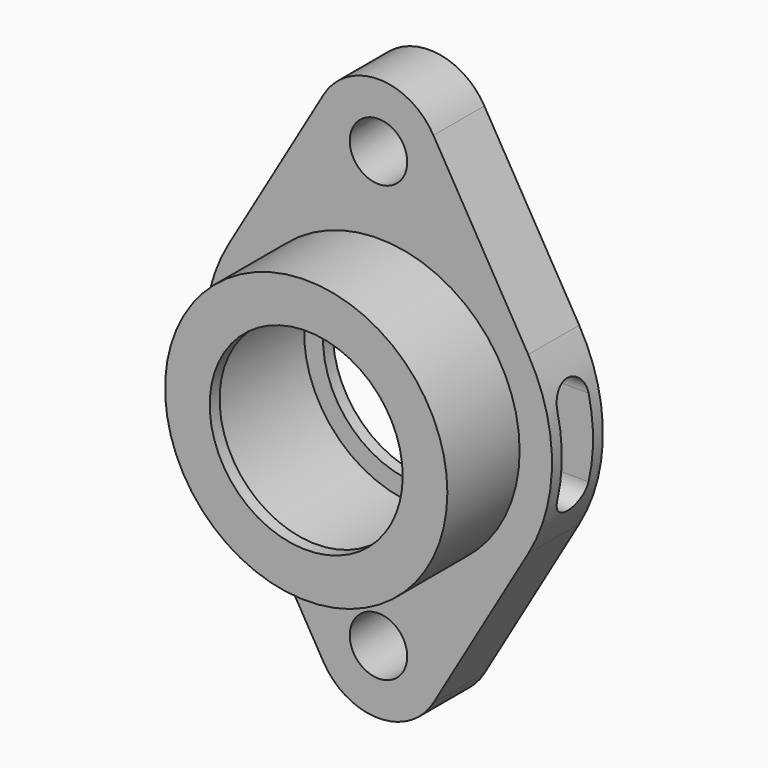
from build123d import *

# Parameters (mm, degrees)
F0_R     = 7.112
F0_R_2   = 34.925
F0_R_3   = 28.575
F0_R_4   = 23.876
F1_DEPTH = 15.748
F2_DEPTH = 22.352
F3_DEPTH = 12.7
F4_DEPTH = 22.352
F5_DEPTH = 19.304
F8_DEPTH = 19.05


with BuildPart() as f1:
    # F0 (on Front) → F1 (new body)
    with BuildSketch(Plane.XZ):
        with BuildLine():
            ThreePointArc((13.59501, 61.796283), (0, 69.596), (-13.59501, 61.796283))
            Line((-13.59501, 61.796283), (-37.057366, 21.665481))
            ThreePointArc((-37.057366, 21.665481), (-42.926, 0), (-37.057366, -21.665481))
            Line((-37.057366, -21.665481), (-13.59501, -61.796283))
            ThreePointArc((-13.59501, -61.796283), (0, -69.596), (13.59501, -61.796283))
            Line((13.59501, -61.796283), (37.057366, -21.665481))
            ThreePointArc((37.057366, -21.665481), (42.926, 0), (37.057366, 21.665481))
            Line((37.057366, 21.665481), (13.59501, 61.796283))
        make_face()
        with Locations((0, -53.848)):
            Circle(F0_R, mode=Mode.SUBTRACT)
        Circle(F0_R_2, mode=Mode.SUBTRACT)
        with Locations((0, 53.848)):
            Circle(F0_R, mode=Mode.SUBTRACT)
        Circle(F0_R_2)
        Circle(F0_R_3, mode=Mode.SUBTRACT)
        Circle(F0_R_3)
        Circle(F0_R_4, mode=Mode.SUBTRACT)
    extrude(amount=-F1_DEPTH)

    # F0 (on Front) → F2 (join)
    with BuildSketch(Plane.XZ):
        Circle(F0_R_2)
        Circle(F0_R_3, mode=Mode.SUBTRACT)
    extrude(amount=F2_DEPTH)

    # F0 (on Front) → F3 (cut)
    with BuildSketch(Plane.XZ):
        Circle(F0_R_3)
        Circle(F0_R_4, mode=Mode.SUBTRACT)
    extrude(amount=-F3_DEPTH, mode=Mode.SUBTRACT)

    # F0 (on Front) → F4 (join)
    with BuildSketch(Plane.XZ):
        Circle(F0_R_3)
        Circle(F0_R_4, mode=Mode.SUBTRACT)
    extrude(amount=F4_DEPTH)

    # F0 (on Front) → F5 (cut)
    with BuildSketch(Plane.XZ):
        Circle(F0_R_3)
        Circle(F0_R_4, mode=Mode.SUBTRACT)
    extrude(amount=F5_DEPTH, mode=Mode.SUBTRACT)

    # F7 (on offset) → F8 (cut, symmetric)
    with BuildSketch(Plane.YZ.offset(28.575)):
        with BuildLine():
            ThreePointArc((12.7, 9.652), (7.874, 14.478), (3.048, 9.652))
            Line((3.048, 9.652), (3.048, -9.652))
            ThreePointArc((3.048, -9.652), (7.874, -14.478), (12.7, -9.652))
            Line((12.7, -9.652), (12.7, 9.652))
        make_face()
    extrude(amount=F8_DEPTH, both=True, mode=Mode.SUBTRACT)


solid = f1.part
